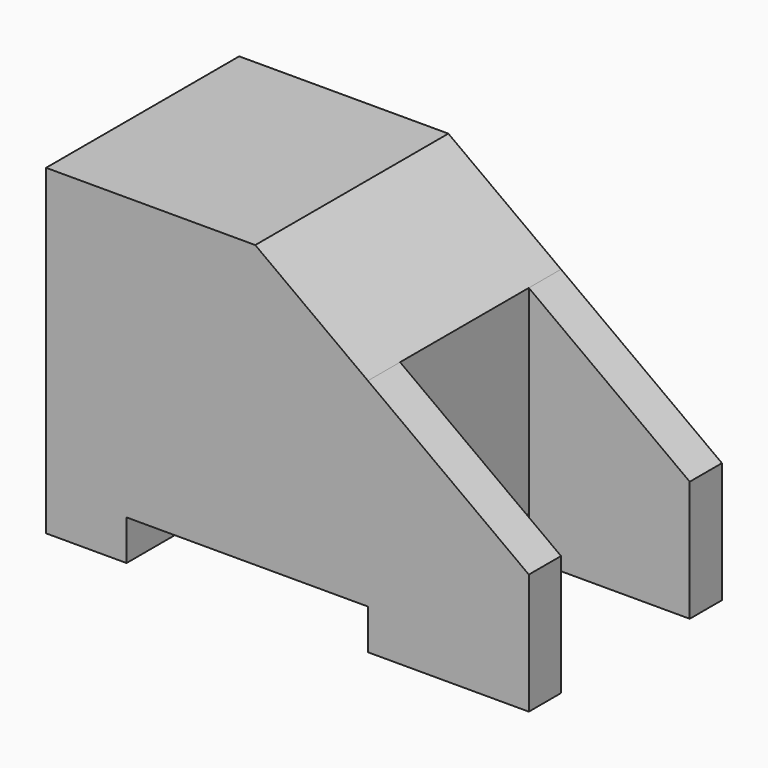
from build123d import *

# Parameters (mm, degrees)
F1_DEPTH = 7.5
F2_DEPTH = 5


with BuildPart() as f1:
    # F0 (on Front) → F1 (new body, symmetric)
    with BuildSketch(Plane.XZ):
        Polygon((0, 20), (0, 0), (5, 0), (5, 2.5), (20, 2.5), (20, 14.852941), (13, 20), align=None)
        Polygon((30, 7.5), (20, 14.852941), (20, 2.5), (20, 0), (30, 0), align=None)
    extrude(amount=F1_DEPTH, both=True)

    # F0 (on Front) → F2 (cut, symmetric)
    with BuildSketch(Plane.XZ):
        Polygon((30, 7.5), (20, 14.852941), (20, 2.5), (20, 0), (30, 0), align=None)
    extrude(amount=F2_DEPTH, both=True, mode=Mode.SUBTRACT)


solid = f1.part
